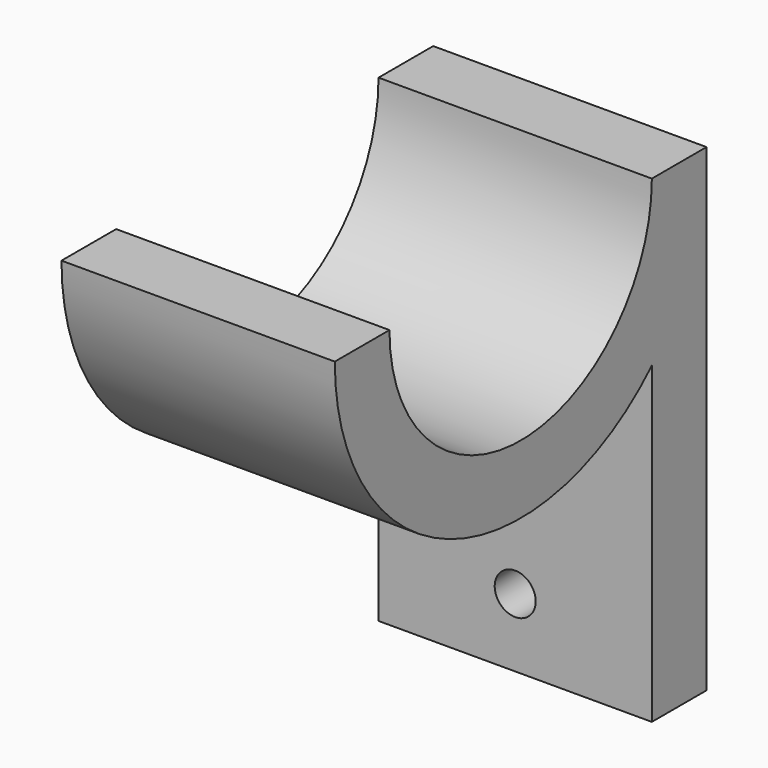
from build123d import *

# Parameters (mm, degrees)
F1_DEPTH = 10
F3_DEPTH = 5
F4_D     = 3


with BuildPart() as f1:
    # F0 (on Right) → F1 (new body, symmetric)
    with BuildSketch(Plane.YZ):
        with BuildLine():
            ThreePointArc((12, 0), (0, -12), (-12, 0))
            Line((-12, 0), (-17.0000008196, 0))
            ThreePointArc((-17.0000008196, 0), (-6.5192030966, -15.7003190684), (12, -12.0415957358))
            Line((12, -12.0415957358), (12, 0))
        make_face()
        with BuildLine():
            Line((17.0000008196, -30), (17.0000008196, 0))
            ThreePointArc((17.0000008196, 0), (15.7003190684, -6.5192030966), (12, -12.0415957358))
            Line((12, -12.0415957358), (12, -30))
            Line((12, -30), (17.0000008196, -30))
        make_face()
        with BuildLine():
            Line((17.0000008196, 0), (12, 0))
            Line((12, 0), (12, -12.0415957358))
            ThreePointArc((12, -12.0415957358), (15.7003190684, -6.5192030966), (17.0000008196, 0))
        make_face()
        with BuildLine():
            ThreePointArc((12, 0), (0, -12), (-12, 0))
            Line((-12, 0), (-17.0000008196, 0))
            ThreePointArc((-17.0000008196, 0), (-6.5192030966, -15.7003190684), (12, -12.0415957358))
            Line((12, -12.0415957358), (12, 0))
        make_face()
    extrude(amount=F1_DEPTH, both=True)

    # F3 (add): a face of the model
    f3_faces = [f1.faces().sort_by_distance(p)[0] for p in [
        (0, 14.5000004098, -30),
    ]]
    extrude(f3_faces, amount=F3_DEPTH)

    # F4 (through all)
    with Locations(Plane.XZ.offset(-12)):
        with Locations((0, -30), (0, -21.0207978679)):
            Hole(F4_D / 2)


solid = f1.part
